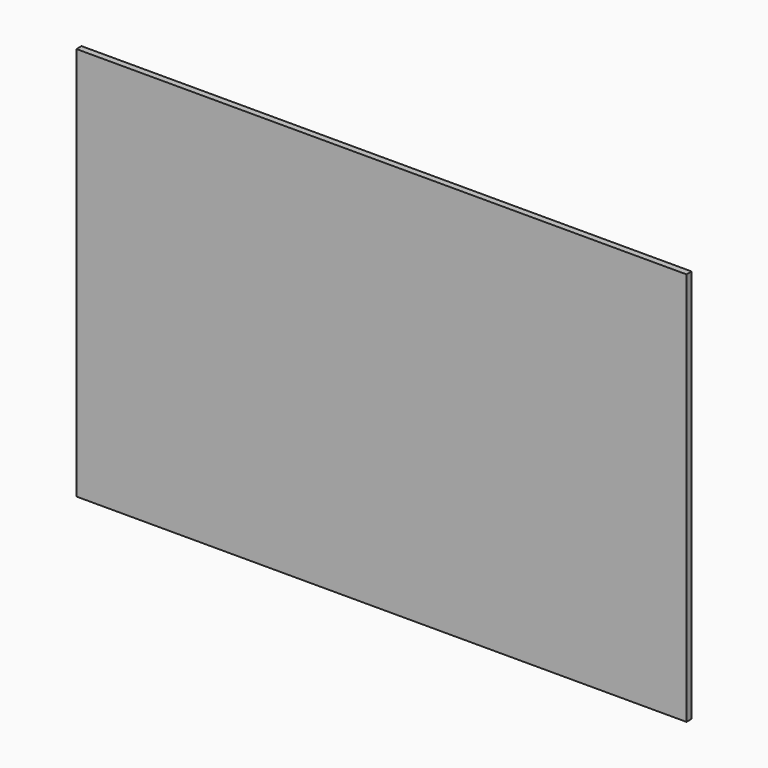
from build123d import *

# Parameters (mm, degrees)
F0_W     = 1219.2
F0_H     = 787.4
F1_DEPTH = 12.7


with BuildPart() as f1:
    # F0 (on Front) → F1 (new body)
    with BuildSketch(Plane.XZ):
        with Locations((609.6, -393.7)):
            Rectangle(F0_W, F0_H)
    extrude(amount=F1_DEPTH)


with BuildPart() as f3_1:
    # F3: copy of F1
    add(f1.part)


solid = f1.part
